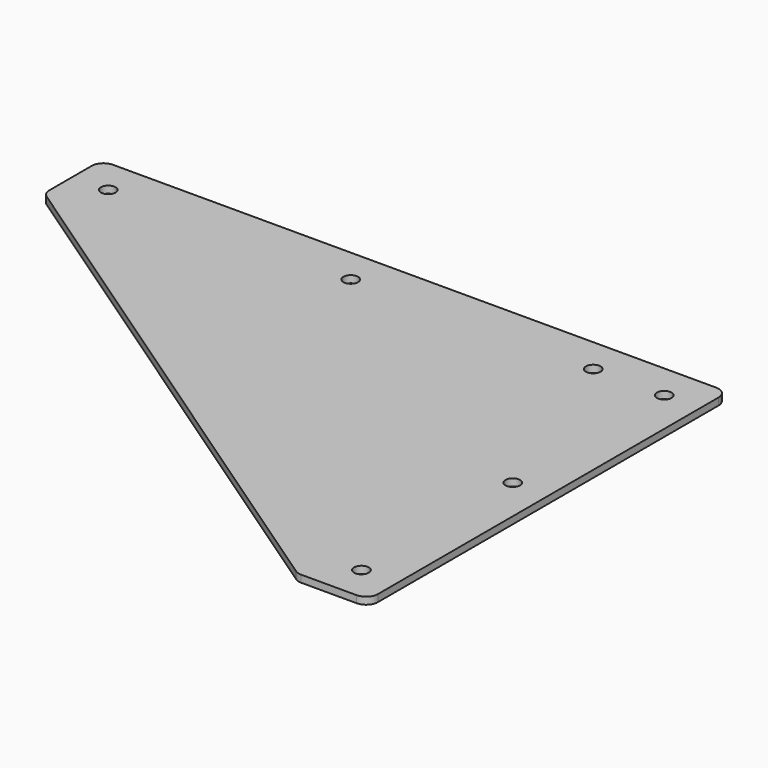
from build123d import *

# Parameters (mm, degrees)
SKETCH_R  = 3.1
PAD_DEPTH = 1.5
FILLET_R  = 5


with BuildPart() as part:
    # Sketch → Pad (new body, symmetric)
    with BuildSketch(Plane.XY):
        Polygon((-250, 15), (15, 15), (15, -175), (-15, -175), (-250, -15), align=None)
        Circle(SKETCH_R, mode=Mode.SUBTRACT)
        with Locations((0, -160)):
            Circle(SKETCH_R, mode=Mode.SUBTRACT)
        with Locations((-30, 0)):
            Circle(SKETCH_R, mode=Mode.SUBTRACT)
        with Locations((-235, 0)):
            Circle(SKETCH_R, mode=Mode.SUBTRACT)
        with Locations((-132.5, 0)):
            Circle(SKETCH_R, mode=Mode.SUBTRACT)
        with Locations((0, -80)):
            Circle(SKETCH_R, mode=Mode.SUBTRACT)
    extrude(amount=PAD_DEPTH, both=True)

    # Fillet
    fillet_edges = [part.edges().sort_by_distance(p)[0] for p in [
        (-250, 15, 0),
        (-250, -15, 0),
        (15, 15, 0),
        (-15, -175, 0),
        (15, -175, 0),
    ]]
    fillet(fillet_edges, radius=FILLET_R)


solid = part.part
